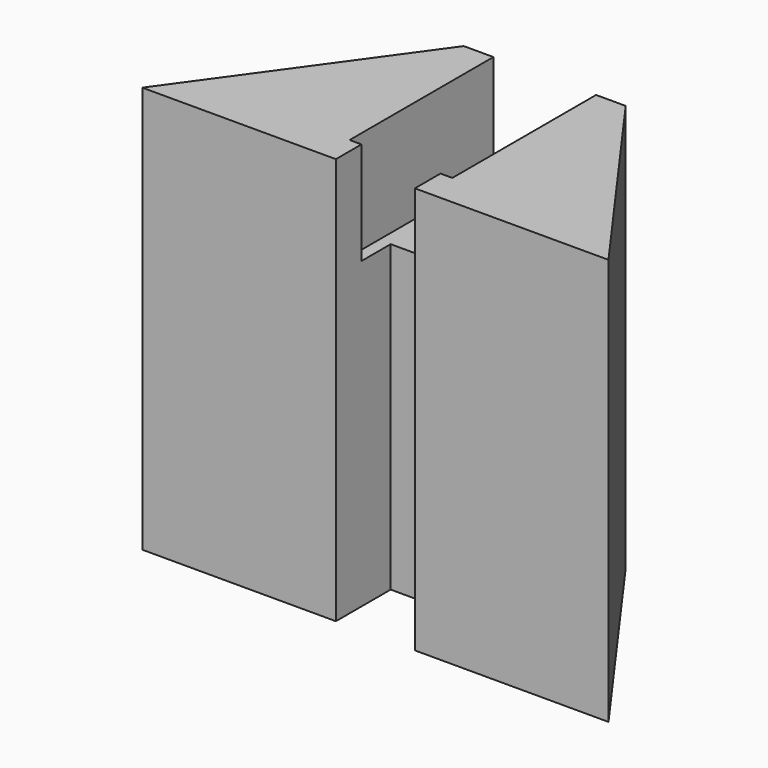
from build123d import *

# Parameters (mm, degrees)
F1_DEPTH = 51.5
F2_W     = 13
F2_H     = 22.75
F3_DEPTH = 13
F4_W     = 13
F4_H     = 3
F5_DEPTH = 5


with BuildPart() as f1:
    # F0 (on Top) → F1 (new body)
    with BuildSketch(Plane.XY):
        Polygon((-10.25, 26.798756), (-29.50686, 0), (-5, 0), (-5, 8.67), (5, 8.67), (5, 0), (29.50686, 0), (10.25, 26.798756), align=None)
    extrude(amount=F1_DEPTH)

    # F2 (on face) → F3 (cut)
    with BuildSketch(Plane.XY.offset(51.5)):
        with Locations((0, 15.423756)):
            Rectangle(F2_W, F2_H)
    extrude(amount=-F3_DEPTH, mode=Mode.SUBTRACT)

    # F4 (on face) → F5 (cut)
    with BuildSketch(Plane.XY.offset(38.5)):
        with Locations((0, 23.298756)):
            Rectangle(F4_W, F4_H)
    extrude(amount=-F5_DEPTH, mode=Mode.SUBTRACT)


solid = f1.part
